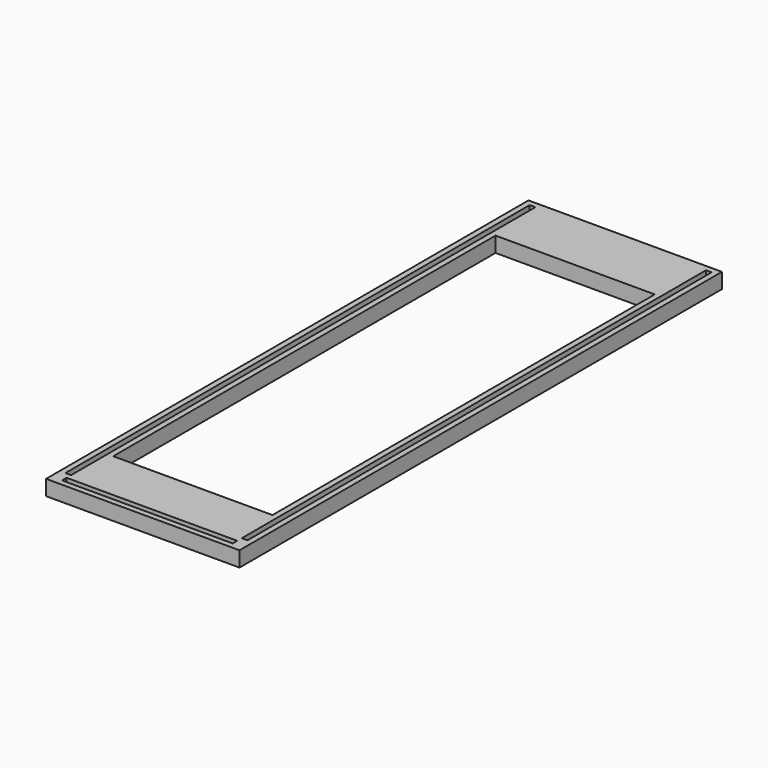
from build123d import *

# Parameters (mm, degrees)
F0_W          = 12.7
F0_H          = 1295.4
F0_W_2        = 355.6
F0_H_2        = 1066.8
F1_DEPTH      = 8.73125
F1_DEPTH_BACK = 25.4


with BuildPart() as f1:
    # F0 (on Top) → F1 (new body, two sides)
    with BuildSketch(Plane.XY) as f1_sk:
        Polygon((215.9, 673.1), (-215.9, 673.1), (-215.9, -673.1), (0, -673.1), (215.9, -673.1), (215.9, 74.258551), align=None)
        Polygon((190.5, -660.4), (0, -660.4), (-190.5, -660.4), (-190.5, -647.7), (190.5, -647.7), align=None, mode=Mode.SUBTRACT)
        with Locations((-196.85, 12.70608)):
            Rectangle(F0_W, F0_H, mode=Mode.SUBTRACT)
        Rectangle(F0_W_2, F0_H_2, mode=Mode.SUBTRACT)
        Polygon((203.2, 660.4), (203.2, 74.258551), (203.2, -635), (190.5, -634.99392), (190.5, 660.4), align=None, mode=Mode.SUBTRACT)
    extrude(amount=F1_DEPTH)
    extrude(f1_sk.sketch, amount=-F1_DEPTH_BACK)


solid = f1.part
